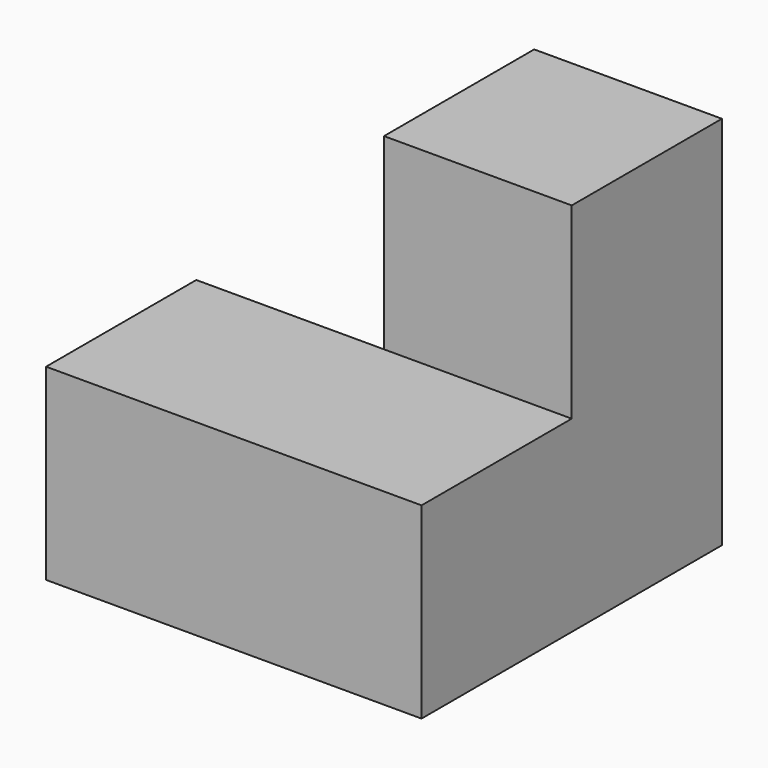
from build123d import *

# Parameters (mm, degrees)
F1_W     = 25.4
F1_H     = 50.8
F2_DEPTH = 25.4
F0_W     = 50.8
F0_H     = 25.4
F3_DEPTH = 25.4


with BuildPart() as f2:
    # F1 (on Right) → F2 (new body)
    with BuildSketch(Plane.YZ):
        with Locations((12.7, 25.4)):
            Rectangle(F1_W, F1_H)
    extrude(amount=F2_DEPTH)

    # F0 (on Front) → F3 (join)
    with BuildSketch(Plane.XZ):
        with Locations((0, 12.7)):
            Rectangle(F0_W, F0_H)
    extrude(amount=F3_DEPTH)


solid = f2.part
